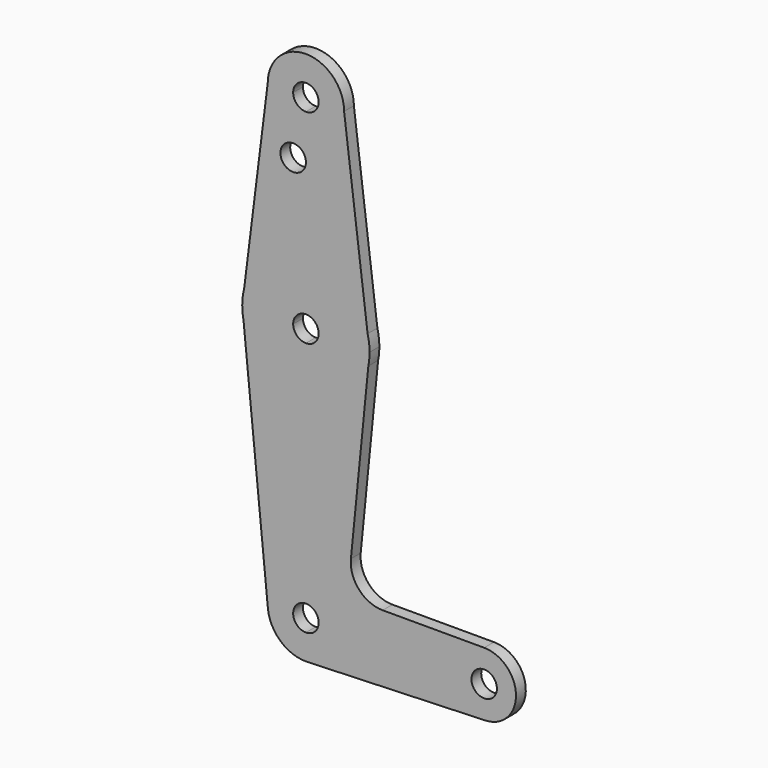
from build123d import *

# Parameters (mm, degrees)
F0_R     = 3.175
F1_DEPTH = 3.048


with BuildPart() as f1:
    # F0 (on Front) → F1 (new body)
    with BuildSketch(Plane.XZ):
        with BuildLine():
            ThreePointArc((0, -3.175), (-3.175, 0), (0, 3.175))
            Line((0, 3.175), (0, 9.525))
            ThreePointArc((0, 9.525), (-7.0600023138, 6.3939027463), (-9.4784185161, -0.940854629))
            ThreePointArc((-9.4784185161, -0.940854629), (-6.3939027463, -7.0600023138), (0, -9.525))
            Line((0, -9.525), (0, -3.175))
        make_face()
        with BuildLine():
            Line((9.525, 0), (3.175, 0))
            ThreePointArc((3.175, 0), (2.2450640303, -2.2450640303), (0, -3.175))
            Line((0, -3.175), (0, -9.525))
            Line((0, -9.525), (0.6773435479, -9.500885786))
            ThreePointArc((0.6773435479, -9.500885786), (6.9705567315, -6.4912990883), (9.525, 0))
        make_face()
        with BuildLine():
            ThreePointArc((-9.4784185161, -0.940854629), (-7.0600023138, 6.3939027463), (0, 9.525))
            Line((0, 9.525), (0, 47.625))
            ThreePointArc((0, 47.625), (-10.0616155323, 51.22076884), (-15.5652161214, 60.3791552277))
            Line((-15.5652161214, 60.3791552277), (-9.4784185161, -0.940854629))
        make_face()
        with BuildLine():
            Line((0, 47.625), (0, 9.525))
            ThreePointArc((0, 9.525), (6.7351920908, 6.7351920908), (9.525, 0))
            Line((9.525, 0), (36.5125, 0))
            ThreePointArc((36.5125, 0), (38.8373399243, 5.6126600757), (44.45, 7.9375))
            Line((44.45, 7.9375), (19.1381395304, 7.9375))
            ThreePointArc((19.1381395304, 7.9375), (13.2453909325, 10.5509225077), (11.2268195423, 16.672999997))
            Line((11.2268195423, 16.672999997), (15.5652161214, 60.3791552277))
            ThreePointArc((15.5652161214, 60.3791552277), (10.0616155323, 51.22076884), (0, 47.625))
        make_face()
        with BuildLine():
            Line((36.5125, 0), (9.525, 0))
            ThreePointArc((9.525, 0), (6.9705567315, -6.4912990883), (0.6773435479, -9.500885786))
            Line((0.6773435479, -9.500885786), (44.7324052746, -7.9324746146))
            ThreePointArc((44.7324052746, -7.9324746146), (38.9380895153, -5.7116327839), (36.5125, 0))
        make_face()
        with BuildLine():
            Line((0.6773435479, -9.500885786), (0, -9.525))
            ThreePointArc((0, -9.525), (0.3388863295, -9.5189695375), (0.6773435479, -9.500885786))
        make_face()
        with BuildLine():
            ThreePointArc((-15.5652161214, 60.3791552277), (-10.0616155323, 51.22076884), (0, 47.625))
            Line((0, 47.625), (0, 60.325))
            ThreePointArc((0, 60.325), (-2.2450640303, 61.2549359697), (-3.175, 63.5))
            Line((-3.175, 63.5), (-15.875, 63.5))
            Line((-15.875, 63.5), (-15.5652161214, 60.3791552277))
        make_face()
        with BuildLine():
            Line((0, 60.325), (0, 47.625))
            ThreePointArc((0, 47.625), (10.0616155323, 51.22076884), (15.5652161214, 60.3791552277))
            Line((15.5652161214, 60.3791552277), (15.875, 63.5))
            Line((15.875, 63.5), (3.175, 63.5))
            ThreePointArc((3.175, 63.5), (2.2450640303, 61.2549359697), (0, 60.325))
        make_face()
        with BuildLine():
            ThreePointArc((44.45, 7.9375), (38.8373399243, 5.6126600757), (36.5125, 0))
            ThreePointArc((36.5125, 0), (38.9380895153, -5.7116327839), (44.7324052746, -7.9324746146))
            ThreePointArc((44.7324052746, -7.9324746146), (50.1616327839, -5.5119104847), (52.3875, 0))
            ThreePointArc((52.3875, 0), (50.0626600757, 5.6126600757), (44.45, 7.9375))
        make_face()
        with BuildLine():
            ThreePointArc((47.625, 0), (44.45, -3.175), (41.275, 0))
            ThreePointArc((41.275, 0), (44.45, 3.175), (47.625, 0))
        make_face(mode=Mode.SUBTRACT)
        with BuildLine():
            ThreePointArc((-15.875, 63.5), (-15.7973641936, 61.9319089516), (-15.5652161214, 60.3791552277))
            Line((-15.5652161214, 60.3791552277), (-15.875, 63.5))
        make_face()
        with BuildLine():
            Line((15.875, 63.5), (15.5652161214, 60.3791552277))
            ThreePointArc((15.5652161214, 60.3791552277), (15.7973641936, 61.9319089516), (15.875, 63.5))
        make_face()
        with BuildLine():
            Line((-15.875, 63.5), (-3.175, 63.5))
            ThreePointArc((-3.175, 63.5), (-2.2450640303, 65.7450640303), (0, 66.675))
            Line((0, 66.675), (0, 79.375))
            ThreePointArc((0, 79.375), (-9.7463072395, 76.0309664508), (-15.3865384615, 67.4076923077))
            Line((-15.3865384615, 67.4076923077), (-15.875, 63.5))
        make_face()
        with BuildLine():
            ThreePointArc((0, 66.675), (2.2450640303, 65.7450640303), (3.175, 63.5))
            Line((3.175, 63.5), (15.875, 63.5))
            Line((15.875, 63.5), (15.3865384615, 67.4076923077))
            ThreePointArc((15.3865384615, 67.4076923077), (9.7463072395, 76.0309664508), (0, 79.375))
            Line((0, 79.375), (0, 66.675))
        make_face()
        with BuildLine():
            ThreePointArc((-15.3865384615, 67.4076923077), (-15.7524112928, 65.4690514116), (-15.875, 63.5))
            Line((-15.875, 63.5), (-15.3865384615, 67.4076923077))
        make_face()
        with BuildLine():
            Line((15.3865384615, 67.4076923077), (15.875, 63.5))
            ThreePointArc((15.875, 63.5), (15.7524112928, 65.4690514116), (15.3865384615, 67.4076923077))
        make_face()
        with BuildLine():
            Line((-9.525, 114.3), (-15.3865384615, 67.4076923077))
            ThreePointArc((-15.3865384615, 67.4076923077), (-9.7463072395, 76.0309664508), (0, 79.375))
            Line((0, 79.375), (0, 100.0252))
            Line((0, 100.0252), (0, 104.775))
            ThreePointArc((0, 104.775), (-6.7351920908, 107.5648079092), (-9.525, 114.3))
        make_face()
        with Locations((-3.175, 100.0252)):
            Circle(F0_R, mode=Mode.SUBTRACT)
        with BuildLine():
            ThreePointArc((0, 79.375), (9.7463072395, 76.0309664508), (15.3865384615, 67.4076923077))
            Line((15.3865384615, 67.4076923077), (9.525, 114.3))
            ThreePointArc((9.525, 114.3), (6.7351920908, 107.5648079092), (0, 104.775))
            Line((0, 104.775), (0, 100.0252))
            Line((0, 100.0252), (0, 79.375))
        make_face()
        with BuildLine():
            Line((-3.175, 114.3), (-9.525, 114.3))
            ThreePointArc((-9.525, 114.3), (-6.7351920908, 107.5648079092), (0, 104.775))
            Line((0, 104.775), (0, 111.125))
            ThreePointArc((0, 111.125), (-2.2450640303, 112.0549359697), (-3.175, 114.3))
        make_face()
        with BuildLine():
            ThreePointArc((9.525, 114.3), (0, 123.825), (-9.525, 114.3))
            Line((-9.525, 114.3), (-3.175, 114.3))
            ThreePointArc((-3.175, 114.3), (0, 117.475), (3.175, 114.3))
            Line((3.175, 114.3), (9.525, 114.3))
        make_face()
        with BuildLine():
            ThreePointArc((0, 104.775), (6.7351920908, 107.5648079092), (9.525, 114.3))
            Line((9.525, 114.3), (3.175, 114.3))
            ThreePointArc((3.175, 114.3), (2.2450640303, 112.0549359697), (0, 111.125))
            Line((0, 111.125), (0, 104.775))
        make_face()
        with BuildLine():
            Line((0, 9.525), (0, 3.175))
            ThreePointArc((0, 3.175), (2.2450640303, 2.2450640303), (3.175, 0))
            Line((3.175, 0), (9.525, 0))
            ThreePointArc((9.525, 0), (6.7351920908, 6.7351920908), (0, 9.525))
        make_face()
    extrude(amount=F1_DEPTH)


solid = f1.part
